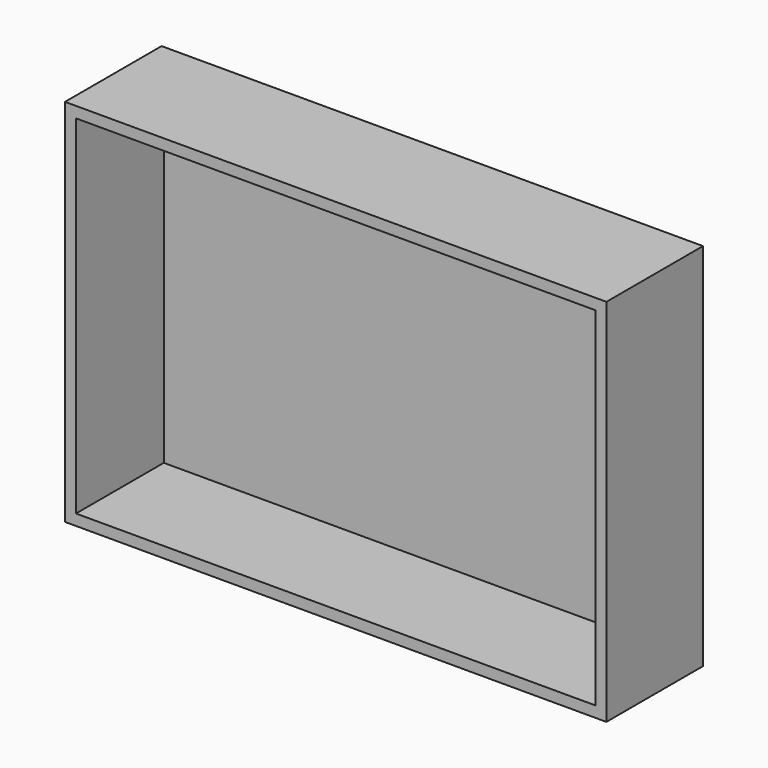
from build123d import *

# Parameters (mm, degrees)
F0_W     = 118.3177381754
F0_H     = 79.2402997613
F1_DEPTH = 25
F2_T     = 2.5


with BuildPart() as f1:
    # F0 (on Front) → F1 (new body)
    with BuildSketch(Plane.XZ):
        Rectangle(F0_W, F0_H)
    extrude(amount=F1_DEPTH)

    # F2
    f2_openings = [f1.faces().sort_by_distance(p)[0] for p in [
        (0, -25, 0),
    ]]
    offset(amount=F2_T, openings=f2_openings, kind=Kind.INTERSECTION)


solid = f1.part
